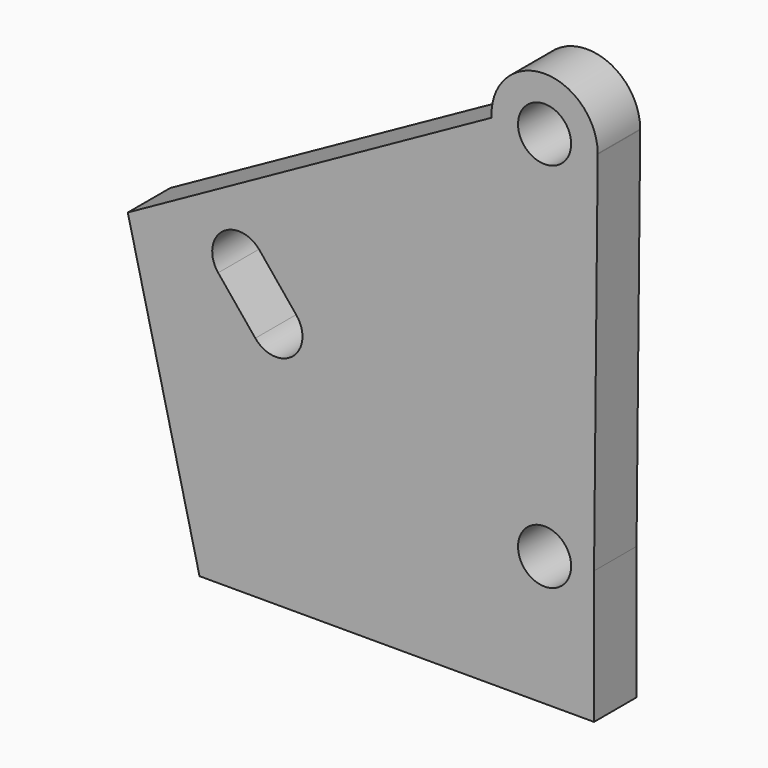
from build123d import *

# Parameters (mm, degrees)
F0_R     = 6.35
F1_DEPTH = 12.7


with BuildPart() as f1:
    # F0 (on Front) → F1 (new body)
    with BuildSketch(Plane.XZ):
        with BuildLine():
            Line((11.823206, 0.789718), (12.69937, 88.773537))
            ThreePointArc((12.69937, 88.773537), (0.287554, 76.203256), (-12.680624, 88.198734))
            Line((-12.680624, 88.198734), (-99.642679, 39.977666))
            Line((-99.642679, 39.977666), (-82.499451, -30.991102))
            Line((-82.499451, -30.991102), (11.823206, -30.991102))
            Line((11.823206, -30.991102), (11.823206, 0.789718))
        make_face()
        with BuildLine():
            Line((-69.154671, 23.427376), (-78.033982, 34.313091))
            ThreePointArc((-78.033982, 34.313091), (-77.127032, 43.247431), (-68.192691, 42.340481))
            Line((-68.192691, 42.340481), (-59.313381, 31.454767))
            ThreePointArc((-59.313381, 31.454767), (-60.220331, 22.520426), (-69.154671, 23.427376))
        make_face(mode=Mode.SUBTRACT)
        Circle(F0_R, mode=Mode.SUBTRACT)
        with BuildLine():
            Line((11.823206, 0.789718), (12.69937, 88.773537))
            ThreePointArc((12.69937, 88.773537), (0.287554, 76.203256), (-12.680624, 88.198734))
            Line((-12.680624, 88.198734), (-99.642679, 39.977666))
            Line((-99.642679, 39.977666), (-82.499451, -30.991102))
            Line((-82.499451, -30.991102), (11.823206, -30.991102))
            Line((11.823206, -30.991102), (11.823206, 0.789718))
        make_face()
        with BuildLine():
            Line((-69.154671, 23.427376), (-78.033982, 34.313091))
            ThreePointArc((-78.033982, 34.313091), (-77.127032, 43.247431), (-68.192691, 42.340481))
            Line((-68.192691, 42.340481), (-59.313381, 31.454767))
            ThreePointArc((-59.313381, 31.454767), (-60.220331, 22.520426), (-69.154671, 23.427376))
        make_face(mode=Mode.SUBTRACT)
        Circle(F0_R, mode=Mode.SUBTRACT)
        with BuildLine():
            ThreePointArc((-12.680624, 88.198734), (0.287554, 76.203256), (12.69937, 88.773537))
            ThreePointArc((12.69937, 88.773537), (12.699843, 88.836768), (12.7, 88.9))
            ThreePointArc((12.7, 88.9), (-0.350767, 101.595155), (-12.680624, 88.198734))
        make_face()
        with Locations((0, 88.9)):
            Circle(F0_R, mode=Mode.SUBTRACT)
    extrude(amount=F1_DEPTH)


solid = f1.part
